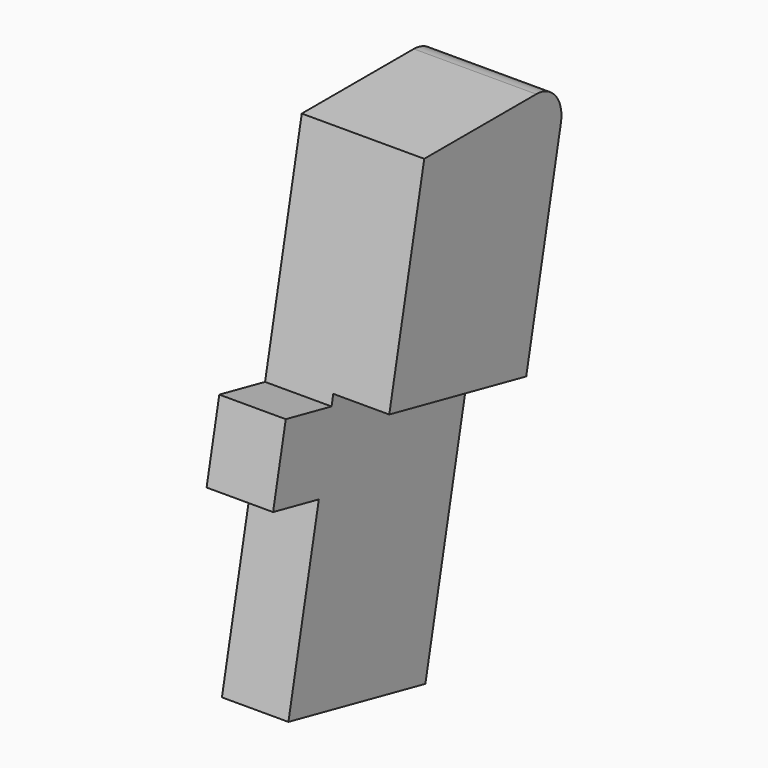
from build123d import *

# Parameters (mm, degrees)
PAD015_DEPTH   = 19
PAD016_DEPTH   = 16
THICKNESS001_T = -2.5


with BuildPart() as part:
    # Sketch039 → Pad015 (new body)
    with BuildSketch(Plane.YZ):
        with BuildLine():
            Line((56.9812455945, -19.1666932293), (85.3849313131, 115.5624248602))
            ThreePointArc((85.3849313131, 115.5624248602), (83.5681124, 123.0886932914), (76.5785062018, 126.4190014838))
            Line((76.5785062018, 126.4190014838), (36.5746674209, 126.4190014838))
            Line((23.4661256961, 64.2403714455), (36.5746674209, 126.4190014838))
            Line((7.1160182593, 67.687312386), (23.4661256961, 64.2403714455))
            Line((2.577719846, 46.1604954473), (7.1160182593, 67.687312386))
            Line((18.9278272829, 42.7135545068), (2.577719846, 46.1604954473))
            Line((8.0566616429, -8.8523786537), (18.9278272829, 42.7135545068))
            Line((56.9812455945, -19.1666932293), (8.0566616429, -8.8523786537))
        make_face()
    extrude(amount=PAD015_DEPTH)

    # Sketch040 (on Face11 of Pad015) → Pad016 (join)
    with BuildSketch(Plane.YZ.offset(19)):
        with BuildLine():
            Line((73.0077538223, 56.8529241183), (85.3849313131, 115.5624248602))
            ThreePointArc((85.3849313131, 115.5624248602), (83.5681124, 123.0886932914), (76.5785062018, 126.4190014838))
            Line((76.5785062018, 126.4190014838), (36.5746674209, 126.4190014838))
            Line((36.5746674209, 126.4190014838), (24.0831698707, 67.1672386939))
            Line((24.0831698707, 67.1672386939), (73.0077538223, 56.8529241183))
        make_face()
    extrude(amount=PAD016_DEPTH)

    # Thickness001
    thickness001_openings = [part.faces().sort_by_distance(p)[0] for p in [
        (0, 45.798185, 55.874797),
        (9.5, 32.518954, -14.009536),
    ]]
    offset(amount=THICKNESS001_T, openings=thickness001_openings)


with BuildPart() as part_1:
    # Body007 placement: moved
    add(part.part.moved(Location((3, 0, 0))))


solid = part_1.part
